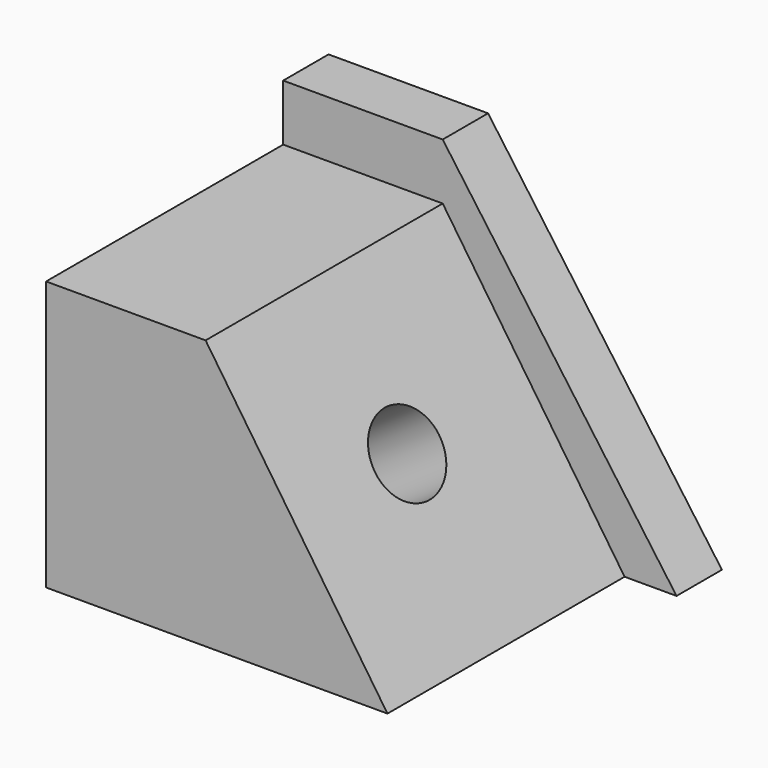
from build123d import *

# Parameters (mm, degrees)
F1_DEPTH = 70.358
F3_D     = 19.05
F5_DEPTH = 13.462


with BuildPart() as f1:
    # F0 (on Front) → F1 (new body)
    with BuildSketch(Plane.XZ):
        Polygon((-34.405455, 40.062729), (-34.405455, -23.89909), (46.643633, -23.89909), (3.463636, 40.062729), align=None)
    extrude(amount=F1_DEPTH)

    # F3 (through all)
    with Locations(Plane(origin=(20.958035, 0, 14.148564), x_dir=(0, 1, 0), z_dir=(0.828814, 0, 0.559524))):
        with Locations((-36.475699, -5.813245)):
            Hole(F3_D / 2)


with BuildPart() as f5:
    # F4 (on face) → F5 (new body)
    with BuildSketch(Plane(origin=(0, 0, 0), x_dir=(-1, 0, 0), z_dir=(0, 1, 0))):
        Polygon((-3.463636, 40.062729), (34.405455, 40.062729), (34.405455, 53.442024), (-3.463636, 53.442024), (-58.979385, -23.89909), (-46.643633, -23.89909), align=None)
    extrude(amount=F5_DEPTH)


solid = Compound([f1.part, f5.part])
